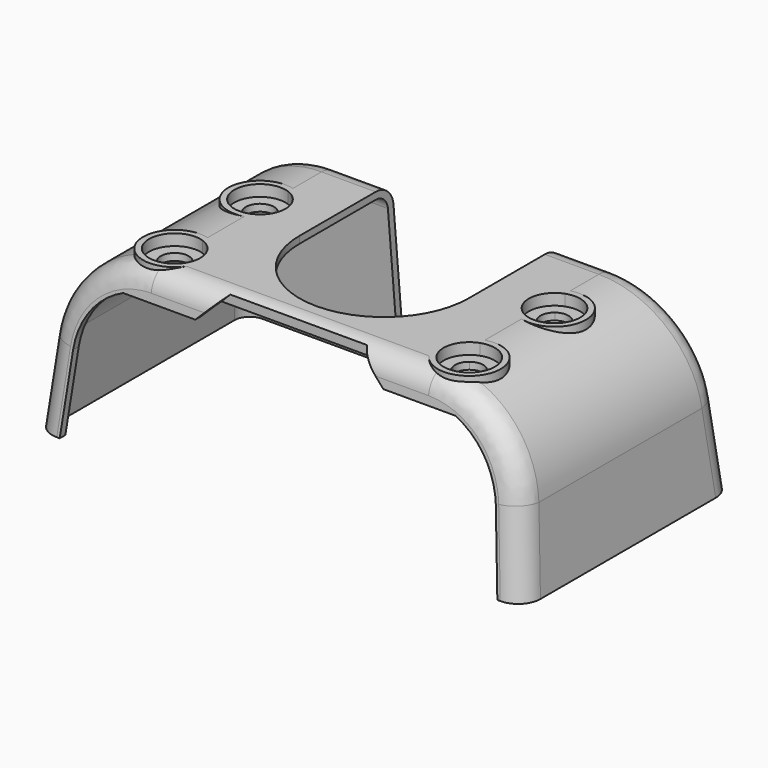
from build123d import *

# Parameters (mm, degrees)
F0_W      = 174
F0_H      = 94
F1_DEPTH  = 60
F1_TAPER  = 5.5
F2_R      = 35
F3_R      = 8
F4_T      = -2.5
F6_W      = 60.3
F6_H      = 26.3440312635
F7_DEPTH  = 60.0010001
F8_R      = 5
F9_DEPTH  = 6.5
F10_DEPTH = 4
F11_DEPTH = 60.0010001
F14_DEPTH = 25
F15_DEPTH = 12


with BuildPart() as f1:
    # F0 (on Top) → F1 (new body)
    with BuildSketch(Plane.XY):
        Rectangle(F0_W, F0_H)
    extrude(amount=F1_DEPTH, taper=F1_TAPER)

    # F2
    f2_edges = [f1.edges().sort_by_distance(p)[0] for p in [
        (-81.222657, 0, 60),
        (81.222657, 0, 60),
    ]]
    fillet(f2_edges, radius=F2_R)

    # F3
    f3_edges = [f1.edges().sort_by_distance(p)[0] for p in [
        (-85.634881, -45.634881, 14.177301),
        (-72.990628, -42.100507, 50.88318),
        (-85.634881, 45.634881, 14.177301),
    ]]
    fillet(f3_edges, radius=F3_R)

    # F4
    f4_openings = [f1.faces().sort_by_distance(p)[0] for p in [
        (0, 0, 0),
    ]]
    offset(amount=F4_T, openings=f4_openings)

    # F6 (on face) → F7 (cut, through all)
    with BuildSketch(Plane.XY.offset(60)):
        with Locations((0, 47.1279843683)):
            Rectangle(F6_W, F6_H)
        with BuildLine():
            Line((-30.15, 33.9559687365), (-30.15, 0))
            ThreePointArc((-30.15, 0), (0, -30.15), (30.15, 0))
            Line((30.15, 0), (30.15, 33.9559687365))
            Line((30.15, 33.9559687365), (-30.15, 33.9559687365))
        make_face()
    extrude(amount=-F7_DEPTH, mode=Mode.SUBTRACT)

    # F8
    f8_edges = [f1.edges().sort_by_distance(p)[0] for p in [
        (-30.15, 45.744219, 0),
        (30.15, 45.744219, 0),
    ]]
    fillet(f8_edges, radius=F8_R)

    # F6 (on face) → F9 (join)
    with BuildSketch(Plane.XY.offset(60)):
        with BuildLine():
            Line((-49.4308954823, -23.7027795875), (-49.4308954823, -19.0300783655))
            ThreePointArc((-49.4308954823, -19.0300783655), (-61.4002257197, -29.7733517634), (-45.8699808765, -33.9559687365))
            Line((-45.8699808765, -33.9559687365), (-49.4308954823, -33.9559687365))
            Line((-49.4308954823, -33.9559687365), (-49.4308954823, -31.5972204125))
            ThreePointArc((-49.4308954823, -31.5972204125), (-57.5000078971, -27.65), (-49.4308954823, -23.7027795875))
        make_face()
        with BuildLine():
            Line((-49.4308954823, -19.0300783655), (-49.4308954823, -16.8267357519))
            ThreePointArc((-49.4308954823, -16.8267357519), (-63.0689971099, -31.5047330672), (-43.1835032793, -33.9559687365))
            Line((-43.1835032793, -33.9559687365), (-45.8699808765, -33.9559687365))
            ThreePointArc((-45.8699808765, -33.9559687365), (-61.4002257197, -29.7733517634), (-49.4308954823, -19.0300783655))
        make_face()
        with BuildLine():
            ThreePointArc((-43.3500078971, -27.65), (-45.0232145137, -22.375527448), (-49.4308954823, -19.0300783655))
            Line((-49.4308954823, -19.0300783655), (-49.4308954823, -23.7027795875))
            ThreePointArc((-49.4308954823, -23.7027795875), (-48.0085959769, -25.4529067014), (-47.5000078971, -27.65))
            ThreePointArc((-47.5000078971, -27.65), (-48.0085959769, -29.8470932986), (-49.4308954823, -31.5972204125))
            Line((-49.4308954823, -31.5972204125), (-49.4308954823, -33.9559687365))
            Line((-49.4308954823, -33.9559687365), (-45.8699808765, -33.9559687365))
            ThreePointArc((-45.8699808765, -33.9559687365), (-44.003324802, -31.0454199123), (-43.3500078971, -27.65))
        make_face()
        with BuildLine():
            ThreePointArc((-41.2500078971, -27.65), (-43.5253208645, -20.866380563), (-49.4308954823, -16.8267357519))
            Line((-49.4308954823, -16.8267357519), (-49.4308954823, -19.0300783655))
            ThreePointArc((-49.4308954823, -19.0300783655), (-45.0232145137, -22.375527448), (-43.3500078971, -27.65))
            ThreePointArc((-43.3500078971, -27.65), (-44.003324802, -31.0454199123), (-45.8699808765, -33.9559687365))
            Line((-45.8699808765, -33.9559687365), (-43.1835032793, -33.9559687365))
            ThreePointArc((-43.1835032793, -33.9559687365), (-41.7442378886, -30.9478646917), (-41.2500078971, -27.65))
        make_face()
        with BuildLine():
            Line((-49.4308954823, 18.9699244463), (-49.4308954823, 21.1732664875))
            ThreePointArc((-49.4308954823, 21.1732664875), (-63.75, 10.35), (-49.4308954823, -0.4732664875))
            Line((-49.4308954823, -0.4732664875), (-49.4308954823, 1.7300755537))
            ThreePointArc((-49.4308954823, 1.7300755537), (-61.65, 10.35), (-49.4308954823, 18.9699244463))
        make_face()
        with BuildLine():
            Line((-49.4308954823, 14.2972265528), (-49.4308954823, 18.9699244463))
            ThreePointArc((-49.4308954823, 18.9699244463), (-61.65, 10.35), (-49.4308954823, 1.7300755537))
            Line((-49.4308954823, 1.7300755537), (-49.4308954823, 6.4027734472))
            ThreePointArc((-49.4308954823, 6.4027734472), (-57.5, 10.35), (-49.4308954823, 14.2972265528))
        make_face()
        with BuildLine():
            ThreePointArc((-41.25, 10.35), (-43.5253154422, 17.1336227112), (-49.4308954823, 21.1732664875))
            Line((-49.4308954823, 21.1732664875), (-49.4308954823, 18.9699244463))
            ThreePointArc((-49.4308954823, 18.9699244463), (-45.0232090327, 15.6244759769), (-43.35, 10.35))
            ThreePointArc((-43.35, 10.35), (-45.0232090327, 5.0755240231), (-49.4308954823, 1.7300755537))
            Line((-49.4308954823, 1.7300755537), (-49.4308954823, -0.4732664875))
            ThreePointArc((-49.4308954823, -0.4732664875), (-43.5253154422, 3.5663772888), (-41.25, 10.35))
        make_face()
        with BuildLine():
            ThreePointArc((-43.35, 10.35), (-45.0232090327, 15.6244759769), (-49.4308954823, 18.9699244463))
            Line((-49.4308954823, 18.9699244463), (-49.4308954823, 14.2972265528))
            ThreePointArc((-49.4308954823, 14.2972265528), (-48.0085902776, 12.5470977916), (-47.5, 10.35))
            ThreePointArc((-47.5, 10.35), (-48.0085902776, 8.1529022084), (-49.4308954823, 6.4027734472))
            Line((-49.4308954823, 6.4027734472), (-49.4308954823, 1.7300755537))
            ThreePointArc((-49.4308954823, 1.7300755537), (-45.0232090327, 5.0755240231), (-43.35, 10.35))
        make_face()
        with BuildLine():
            ThreePointArc((61.6500078971, -27.65), (57.7744804491, -20.1732066166), (49.4308954823, -19.0300783655))
            Line((49.4308954823, -19.0300783655), (49.4308954823, -23.7027795875))
            ThreePointArc((49.4308954823, -23.7027795875), (54.6971011957, -23.1585880798), (57.5000078971, -27.65))
            ThreePointArc((57.5000078971, -27.65), (54.6971011957, -32.1414119202), (49.4308954823, -31.5972204125))
            Line((49.4308954823, -31.5972204125), (49.4308954823, -33.9559687365))
            Line((49.4308954823, -33.9559687365), (45.8699808765, -33.9559687365))
            ThreePointArc((45.8699808765, -33.9559687365), (55.8954278094, -36.1466830951), (61.6500078971, -27.65))
        make_face()
        with BuildLine():
            ThreePointArc((63.7500078971, -27.65), (59.2836273341, -18.6753129674), (49.4308954823, -16.8267357519))
            Line((49.4308954823, -16.8267357519), (49.4308954823, -19.0300783655))
            ThreePointArc((49.4308954823, -19.0300783655), (57.7744804491, -20.1732066166), (61.6500078971, -27.65))
            ThreePointArc((61.6500078971, -27.65), (55.8954278094, -36.1466830951), (45.8699808765, -33.9559687365))
            Line((45.8699808765, -33.9559687365), (43.1835032793, -33.9559687365))
            ThreePointArc((43.1835032793, -33.9559687365), (55.7978725888, -38.4057700085), (63.7500078971, -27.65))
        make_face()
        with BuildLine():
            Line((49.4308954823, -23.7027795875), (49.4308954823, -19.0300783655))
            ThreePointArc((49.4308954823, -19.0300783655), (43.5997900745, -25.5266482366), (45.8699808765, -33.9559687365))
            Line((45.8699808765, -33.9559687365), (49.4308954823, -33.9559687365))
            Line((49.4308954823, -33.9559687365), (49.4308954823, -31.5972204125))
            ThreePointArc((49.4308954823, -31.5972204125), (47.5000078971, -27.65), (49.4308954823, -23.7027795875))
        make_face()
        with BuildLine():
            Line((49.4308954823, -19.0300783655), (49.4308954823, -16.8267357519))
            ThreePointArc((49.4308954823, -16.8267357519), (41.9310186843, -23.7952669328), (43.1835032793, -33.9559687365))
            Line((43.1835032793, -33.9559687365), (45.8699808765, -33.9559687365))
            ThreePointArc((45.8699808765, -33.9559687365), (43.5997900745, -25.5266482366), (49.4308954823, -19.0300783655))
        make_face()
        with BuildLine():
            ThreePointArc((63.75, 10.35), (59.2836227112, 19.3246845578), (49.4308954823, 21.1732664875))
            Line((49.4308954823, 21.1732664875), (49.4308954823, 18.9699244463))
            ThreePointArc((49.4308954823, 18.9699244463), (57.7744759769, 17.8267909673), (61.65, 10.35))
            ThreePointArc((61.65, 10.35), (57.7744759769, 2.8732090327), (49.4308954823, 1.7300755537))
            Line((49.4308954823, 1.7300755537), (49.4308954823, -0.4732664875))
            ThreePointArc((49.4308954823, -0.4732664875), (59.2836227112, 1.3753154422), (63.75, 10.35))
        make_face()
        with BuildLine():
            ThreePointArc((61.65, 10.35), (57.7744759769, 17.8267909673), (49.4308954823, 18.9699244463))
            Line((49.4308954823, 18.9699244463), (49.4308954823, 14.2972265528))
            ThreePointArc((49.4308954823, 14.2972265528), (54.6970977916, 14.8414097224), (57.5, 10.35))
            ThreePointArc((57.5, 10.35), (54.6970977916, 5.8585902776), (49.4308954823, 6.4027734472))
            Line((49.4308954823, 6.4027734472), (49.4308954823, 1.7300755537))
            ThreePointArc((49.4308954823, 1.7300755537), (57.7744759769, 2.8732090327), (61.65, 10.35))
        make_face()
        with BuildLine():
            Line((49.4308954823, 14.2972265528), (49.4308954823, 18.9699244463))
            ThreePointArc((49.4308954823, 18.9699244463), (43.35, 10.35), (49.4308954823, 1.7300755537))
            Line((49.4308954823, 1.7300755537), (49.4308954823, 6.4027734472))
            ThreePointArc((49.4308954823, 6.4027734472), (47.5, 10.35), (49.4308954823, 14.2972265528))
        make_face()
        with BuildLine():
            Line((49.4308954823, 18.9699244463), (49.4308954823, 21.1732664875))
            ThreePointArc((49.4308954823, 21.1732664875), (41.25, 10.35), (49.4308954823, -0.4732664875))
            Line((49.4308954823, -0.4732664875), (49.4308954823, 1.7300755537))
            ThreePointArc((49.4308954823, 1.7300755537), (43.35, 10.35), (49.4308954823, 18.9699244463))
        make_face()
    extrude(amount=-F9_DEPTH)

    # F6 (on face) → F10 (cut)
    with BuildSketch(Plane.XY.offset(60)):
        with BuildLine():
            ThreePointArc((61.6500078971, -27.65), (57.7744804491, -20.1732066166), (49.4308954823, -19.0300783655))
            Line((49.4308954823, -19.0300783655), (49.4308954823, -23.7027795875))
            ThreePointArc((49.4308954823, -23.7027795875), (54.6971011957, -23.1585880798), (57.5000078971, -27.65))
            ThreePointArc((57.5000078971, -27.65), (54.6971011957, -32.1414119202), (49.4308954823, -31.5972204125))
            Line((49.4308954823, -31.5972204125), (49.4308954823, -33.9559687365))
            Line((49.4308954823, -33.9559687365), (45.8699808765, -33.9559687365))
            ThreePointArc((45.8699808765, -33.9559687365), (55.8954278094, -36.1466830951), (61.6500078971, -27.65))
        make_face()
        with BuildLine():
            Line((49.4308954823, -23.7027795875), (49.4308954823, -19.0300783655))
            ThreePointArc((49.4308954823, -19.0300783655), (43.5997900745, -25.5266482366), (45.8699808765, -33.9559687365))
            Line((45.8699808765, -33.9559687365), (49.4308954823, -33.9559687365))
            Line((49.4308954823, -33.9559687365), (49.4308954823, -31.5972204125))
            ThreePointArc((49.4308954823, -31.5972204125), (47.5000078971, -27.65), (49.4308954823, -23.7027795875))
        make_face()
        with BuildLine():
            Line((49.4308954823, 14.2972265528), (49.4308954823, 18.9699244463))
            ThreePointArc((49.4308954823, 18.9699244463), (43.35, 10.35), (49.4308954823, 1.7300755537))
            Line((49.4308954823, 1.7300755537), (49.4308954823, 6.4027734472))
            ThreePointArc((49.4308954823, 6.4027734472), (47.5, 10.35), (49.4308954823, 14.2972265528))
        make_face()
        with BuildLine():
            ThreePointArc((61.65, 10.35), (57.7744759769, 17.8267909673), (49.4308954823, 18.9699244463))
            Line((49.4308954823, 18.9699244463), (49.4308954823, 14.2972265528))
            ThreePointArc((49.4308954823, 14.2972265528), (54.6970977916, 14.8414097224), (57.5, 10.35))
            ThreePointArc((57.5, 10.35), (54.6970977916, 5.8585902776), (49.4308954823, 6.4027734472))
            Line((49.4308954823, 6.4027734472), (49.4308954823, 1.7300755537))
            ThreePointArc((49.4308954823, 1.7300755537), (57.7744759769, 2.8732090327), (61.65, 10.35))
        make_face()
        with BuildLine():
            ThreePointArc((-43.3500078971, -27.65), (-45.0232145137, -22.375527448), (-49.4308954823, -19.0300783655))
            Line((-49.4308954823, -19.0300783655), (-49.4308954823, -23.7027795875))
            ThreePointArc((-49.4308954823, -23.7027795875), (-48.0085959769, -25.4529067014), (-47.5000078971, -27.65))
            ThreePointArc((-47.5000078971, -27.65), (-48.0085959769, -29.8470932986), (-49.4308954823, -31.5972204125))
            Line((-49.4308954823, -31.5972204125), (-49.4308954823, -33.9559687365))
            Line((-49.4308954823, -33.9559687365), (-45.8699808765, -33.9559687365))
            ThreePointArc((-45.8699808765, -33.9559687365), (-44.003324802, -31.0454199123), (-43.3500078971, -27.65))
        make_face()
        with BuildLine():
            Line((-49.4308954823, -23.7027795875), (-49.4308954823, -19.0300783655))
            ThreePointArc((-49.4308954823, -19.0300783655), (-61.4002257197, -29.7733517634), (-45.8699808765, -33.9559687365))
            Line((-45.8699808765, -33.9559687365), (-49.4308954823, -33.9559687365))
            Line((-49.4308954823, -33.9559687365), (-49.4308954823, -31.5972204125))
            ThreePointArc((-49.4308954823, -31.5972204125), (-57.5000078971, -27.65), (-49.4308954823, -23.7027795875))
        make_face()
        with BuildLine():
            Line((-49.4308954823, 14.2972265528), (-49.4308954823, 18.9699244463))
            ThreePointArc((-49.4308954823, 18.9699244463), (-61.65, 10.35), (-49.4308954823, 1.7300755537))
            Line((-49.4308954823, 1.7300755537), (-49.4308954823, 6.4027734472))
            ThreePointArc((-49.4308954823, 6.4027734472), (-57.5, 10.35), (-49.4308954823, 14.2972265528))
        make_face()
        with BuildLine():
            ThreePointArc((-43.35, 10.35), (-45.0232090327, 15.6244759769), (-49.4308954823, 18.9699244463))
            Line((-49.4308954823, 18.9699244463), (-49.4308954823, 14.2972265528))
            ThreePointArc((-49.4308954823, 14.2972265528), (-48.0085902776, 12.5470977916), (-47.5, 10.35))
            ThreePointArc((-47.5, 10.35), (-48.0085902776, 8.1529022084), (-49.4308954823, 6.4027734472))
            Line((-49.4308954823, 6.4027734472), (-49.4308954823, 1.7300755537))
            ThreePointArc((-49.4308954823, 1.7300755537), (-45.0232090327, 5.0755240231), (-43.35, 10.35))
        make_face()
    extrude(amount=-F10_DEPTH, mode=Mode.SUBTRACT)

    # F6 (on face) → F11 (cut, through all)
    with BuildSketch(Plane.XY.offset(60)):
        with BuildLine():
            ThreePointArc((57.5000078971, -27.65), (54.6971011957, -23.1585880798), (49.4308954823, -23.7027795875))
            Line((49.4308954823, -23.7027795875), (49.4308954823, -31.5972204125))
            ThreePointArc((49.4308954823, -31.5972204125), (54.6971011957, -32.1414119202), (57.5000078971, -27.65))
        make_face()
        with BuildLine():
            Line((49.4308954823, -31.5972204125), (49.4308954823, -23.7027795875))
            ThreePointArc((49.4308954823, -23.7027795875), (47.5000078971, -27.65), (49.4308954823, -31.5972204125))
        make_face()
        with BuildLine():
            Line((49.4308954823, 6.4027734472), (49.4308954823, 14.2972265528))
            ThreePointArc((49.4308954823, 14.2972265528), (47.5, 10.35), (49.4308954823, 6.4027734472))
        make_face()
        with BuildLine():
            Line((-49.4308954823, 6.4027734472), (-49.4308954823, 14.2972265528))
            ThreePointArc((-49.4308954823, 14.2972265528), (-57.5, 10.35), (-49.4308954823, 6.4027734472))
        make_face()
        with BuildLine():
            ThreePointArc((-47.5000078971, -27.65), (-48.0085959769, -25.4529067014), (-49.4308954823, -23.7027795875))
            Line((-49.4308954823, -23.7027795875), (-49.4308954823, -31.5972204125))
            ThreePointArc((-49.4308954823, -31.5972204125), (-48.0085959769, -29.8470932986), (-47.5000078971, -27.65))
        make_face()
        with BuildLine():
            Line((-49.4308954823, -31.5972204125), (-49.4308954823, -23.7027795875))
            ThreePointArc((-49.4308954823, -23.7027795875), (-57.5000078971, -27.65), (-49.4308954823, -31.5972204125))
        make_face()
        with BuildLine():
            ThreePointArc((-47.5, 10.35), (-48.0085902776, 12.5470977916), (-49.4308954823, 14.2972265528))
            Line((-49.4308954823, 14.2972265528), (-49.4308954823, 6.4027734472))
            ThreePointArc((-49.4308954823, 6.4027734472), (-48.0085902776, 8.1529022084), (-47.5, 10.35))
        make_face()
        with BuildLine():
            ThreePointArc((57.5, 10.35), (54.6970977916, 14.8414097224), (49.4308954823, 14.2972265528))
            Line((49.4308954823, 14.2972265528), (49.4308954823, 6.4027734472))
            ThreePointArc((49.4308954823, 6.4027734472), (54.6970977916, 5.8585902776), (57.5, 10.35))
        make_face()
    extrude(amount=-F11_DEPTH, mode=Mode.SUBTRACT)

    # F13 (on offset) → F14 (cut)
    with BuildSketch(Plane.XZ.offset(50)):
        with BuildLine():
            Line((-75.3435935954, 27.587835318), (-78, 0))
            Line((-78, 0), (0, 0))
            Line((0, 0), (78, 0))
            Line((78, 0), (75.3435935954, 27.587835318))
            ThreePointArc((75.3435935954, 27.587835318), (70.3068228604, 40.876438015), (59.2199798005, 49.7667660202))
            Line((59.2199798005, 49.7667660202), (33.5, 49.7667660202))
            Line((33.5, 49.7667660202), (0, 49.7667660202))
            Line((0, 49.7667660202), (-33.5, 49.7667660202))
            Line((-33.5, 49.7667660202), (-59.2199798005, 49.7667660202))
            ThreePointArc((-59.2199798005, 49.7667660202), (-70.3068228604, 40.876438015), (-75.3435935954, 27.587835318))
        make_face()
    extrude(amount=-F14_DEPTH, mode=Mode.SUBTRACT)

    # F13 (on offset) → F15 (cut)
    with BuildSketch(Plane.XZ.offset(50)):
        Polygon((-23.5, 59.7667660202), (-33.5, 49.7667660202), (0, 49.7667660202), (33.5, 49.7667660202), (23.5, 59.7667660202), (0, 59.7667660202), align=None)
    extrude(amount=-F15_DEPTH, mode=Mode.SUBTRACT)


solid = f1.part
